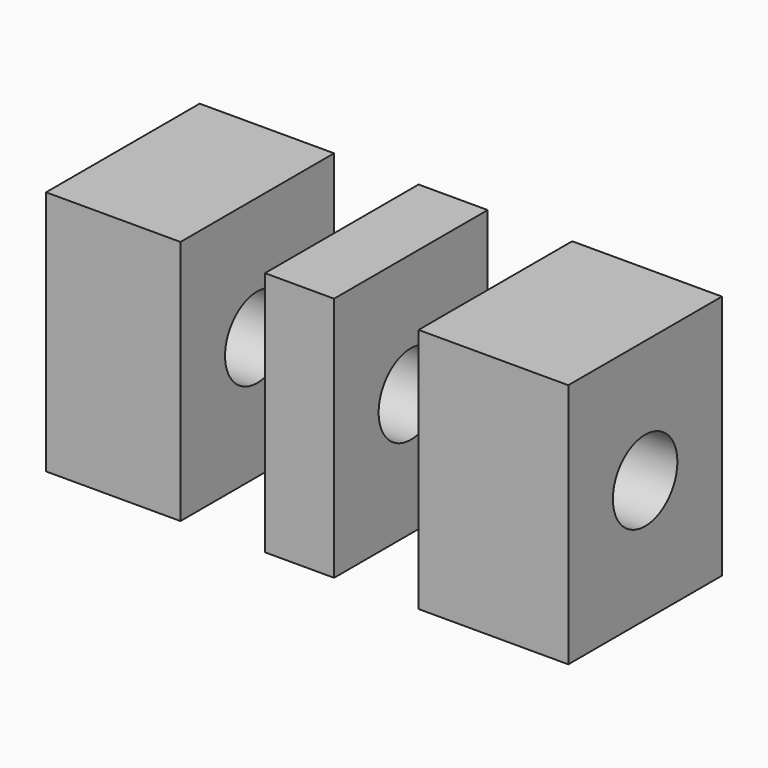
from build123d import *

# Parameters (mm, degrees)
SKETCH018_R                            = 1.05
EXTRUDE001_DEPTH                       = 13.6
SKETCH017_AS_DRAWN_W                   = 1.8
SKETCH017_AS_DRAWN_H                   = 6.4
SKETCH017_AS_DRAWN_W_2                 = 3.9
SKETCH017_AS_DRAWN_W_3                 = 3.5
EXTRUDE_DEPTH                          = 5
EXTRUDE_ONTO_SKETCH017_ROLL_ANGLE      = 90
EXTRUDE_ONTO_SKETCH017_PLACEMENT_ANGLE = -180


with BuildPart() as extrude001:
    # Sketch018 (on Face2 of BaseFeature) → Extrude001 (new body)
    with BuildSketch(Plane.YZ.offset(7)):
        with Locations((19.5, 1.6)):
            Circle(SKETCH018_R)
    extrude(amount=-EXTRUDE001_DEPTH)


with BuildPart() as body:
    # Sketch017 as drawn → Extrude (new)
    with BuildSketch(Plane.XY):
        with Locations((0, 1.6)):
            Rectangle(SKETCH017_AS_DRAWN_W, SKETCH017_AS_DRAWN_H)
        with Locations((-5.05, 1.6)):
            Rectangle(SKETCH017_AS_DRAWN_W_2, SKETCH017_AS_DRAWN_H)
        with Locations((4.85, 1.6)):
            Rectangle(SKETCH017_AS_DRAWN_W_3, SKETCH017_AS_DRAWN_H)
    extrude(amount=EXTRUDE_DEPTH)


with BuildPart() as body_1:
    # Extrude onto Sketch017 roll: moved
    add(body.part.rotate(Axis((0, 0, 0), (1, 0, 0)), EXTRUDE_ONTO_SKETCH017_ROLL_ANGLE))


with BuildPart() as body_2:
    # Extrude onto Sketch017 placement: moved
    add(body_1.part.moved(Location((0, 17, 0))).rotate(Axis((0, 17, 0), (0, 0, 1)), EXTRUDE_ONTO_SKETCH017_PLACEMENT_ANGLE))

    # Cut: cut Extrude001
    add(extrude001.part, mode=Mode.SUBTRACT)


solid = body_2.part
